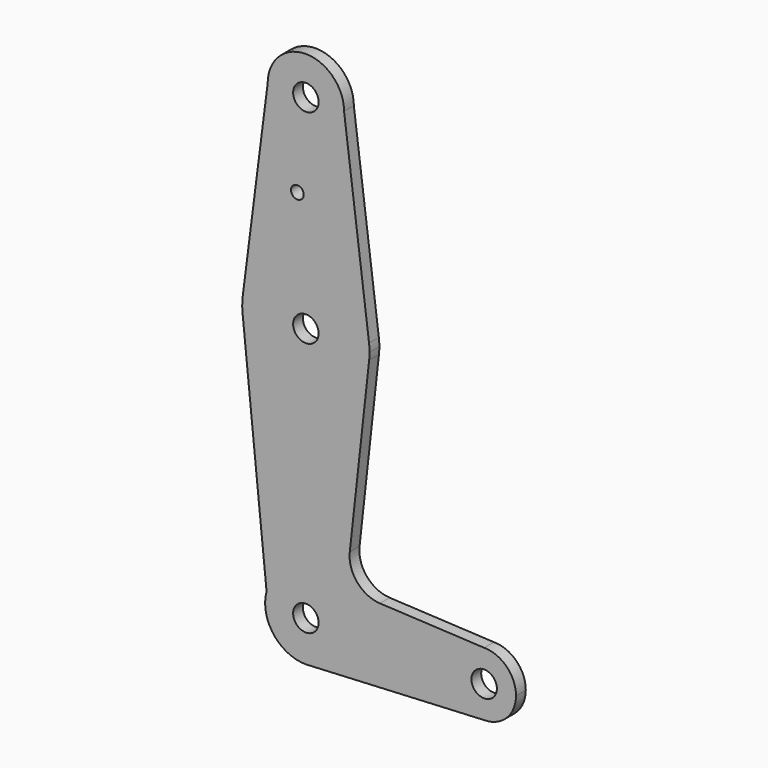
from build123d import *

# Parameters (mm, degrees)
F0_R     = 3.175
F0_R_2   = 1.5875
F1_DEPTH = 3.048


with BuildPart() as f1:
    # F0 (on Front) → F1 (new body)
    with BuildSketch(Plane.XZ):
        with BuildLine():
            ThreePointArc((-9.525, 114.3), (0, 104.775), (9.525, 114.3))
            ThreePointArc((9.525, 114.3), (0, 123.825), (-9.525, 114.3))
        make_face()
        with Locations((0, 114.3)):
            Circle(F0_R, mode=Mode.SUBTRACT)
        with BuildLine():
            Line((15.747457, 65.508289), (9.525, 114.3))
            ThreePointArc((9.525, 114.3), (0, 104.775), (-9.525, 114.3))
            Line((-9.525, 114.3), (-15.747457, 65.508289))
            ThreePointArc((-15.747457, 65.508289), (0, 79.375), (15.747457, 65.508289))
        make_face()
        with Locations((-2.122175, 92.750572)):
            Circle(F0_R_2, mode=Mode.SUBTRACT)
        with BuildLine():
            ThreePointArc((15.875, 63.5), (15.843082, 64.506168), (15.747457, 65.508289))
            ThreePointArc((15.747457, 65.508289), (0, 79.375), (-15.747457, 65.508289))
            ThreePointArc((-15.747457, 65.508289), (-15.873655, 63.706606), (-15.794392, 61.902249))
            ThreePointArc((-15.794392, 61.902249), (-0.074773, 47.625176), (15.77864, 61.753534))
            ThreePointArc((15.77864, 61.753534), (15.850892, 62.625439), (15.875, 63.5))
        make_face()
        with Locations((0, 63.5)):
            Circle(F0_R, mode=Mode.SUBTRACT)
        with BuildLine():
            ThreePointArc((15.77864, 61.753534), (-0.074773, 47.625176), (-15.794392, 61.902249))
            Line((-15.794392, 61.902249), (-9.802707, 2.672107))
            ThreePointArc((-9.802707, 2.672107), (1.347969, 10.070561), (10.160375, 0))
            ThreePointArc((10.160375, 0), (7.534339, -6.816668), (1.013674, -10.109683))
            Line((1.013674, -10.109683), (44.45, -7.9375))
            ThreePointArc((44.45, -7.9375), (36.5125, 0), (44.45, 7.9375))
            Line((44.45, 7.9375), (18.446467, 9.237896))
            ThreePointArc((18.446467, 9.237896), (12.790111, 12.024381), (10.941605, 18.052804))
            Line((10.941605, 18.052804), (15.77864, 61.753534))
        make_face()
        with BuildLine():
            ThreePointArc((10.160375, 0), (1.347969, 10.070561), (-9.802707, 2.672107))
            ThreePointArc((-9.802707, 2.672107), (-8.07412, -6.167804), (0, -10.160375))
            Line((0, -10.160375), (1.013674, -10.109683))
            ThreePointArc((1.013674, -10.109683), (7.534339, -6.816668), (10.160375, 0))
        make_face()
        Circle(F0_R, mode=Mode.SUBTRACT)
        with BuildLine():
            Line((1.013674, -10.109683), (0, -10.160375))
            ThreePointArc((0, -10.160375), (0.50747, -10.147694), (1.013674, -10.109683))
        make_face()
        with BuildLine():
            ThreePointArc((52.3875, 0), (50.06266, 5.61266), (44.45, 7.9375))
            ThreePointArc((44.45, 7.9375), (36.5125, 0), (44.45, -7.9375))
            ThreePointArc((44.45, -7.9375), (50.06266, -5.61266), (52.3875, 0))
        make_face()
        with Locations((44.45, 0)):
            Circle(F0_R, mode=Mode.SUBTRACT)
    extrude(amount=F1_DEPTH)


solid = f1.part
